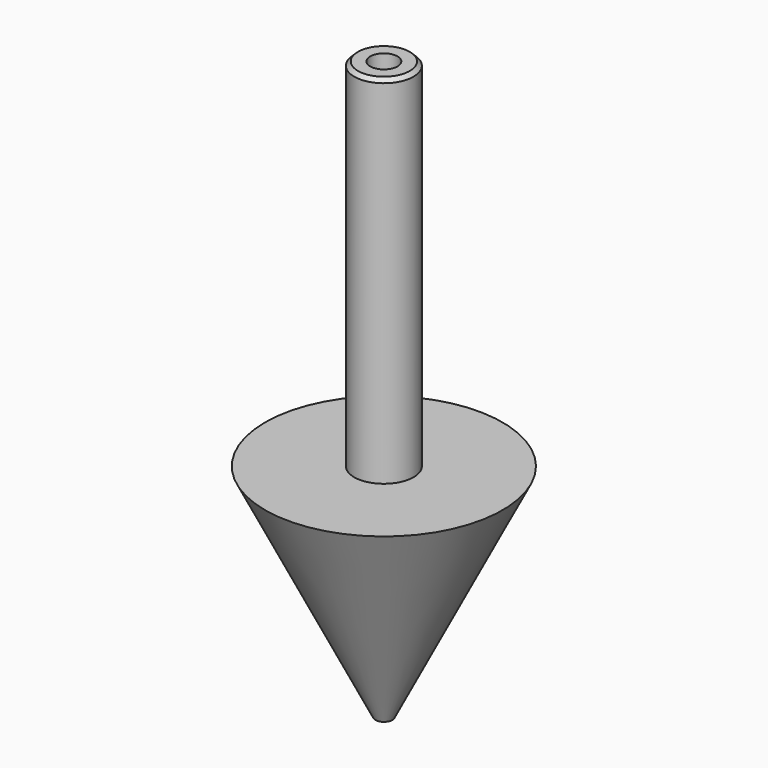
from build123d import *

# Parameters (mm, degrees)
F2_R     = 2.915028
F3_DEPTH = 25.4
F4_SIZE  = 0.8128
F5_R     = 1.809052
F6_DEPTH = 127.001


with BuildPart() as f1:
    # F0 (on Front) → F1 (revolve)
    with BuildSketch(Plane.XZ):
        Polygon((0, -50.8), (0, 0), (0, 76.2), (-6.35, 76.2), (-6.35, 0), (-25.4, 0), align=None)
    revolve(axis=Axis((0, 0, 38.1), (0, 0, -1)))

    # F2 (on face) → F3 (cut)
    with BuildSketch(Plane.XY.offset(76.2)):
        Circle(F2_R)
    extrude(amount=-F3_DEPTH, mode=Mode.SUBTRACT)

    # F4
    f4_edges = [f1.edges().sort_by_distance(p)[0] for p in [
        (6.35, 0, 76.2),
    ]]
    chamfer(f4_edges, length=F4_SIZE)

    # F5 (on face) → F6 (cut, through all)
    with BuildSketch(Plane.XY.offset(76.2)):
        Circle(F5_R)
    extrude(amount=-F6_DEPTH, mode=Mode.SUBTRACT)


solid = f1.part
